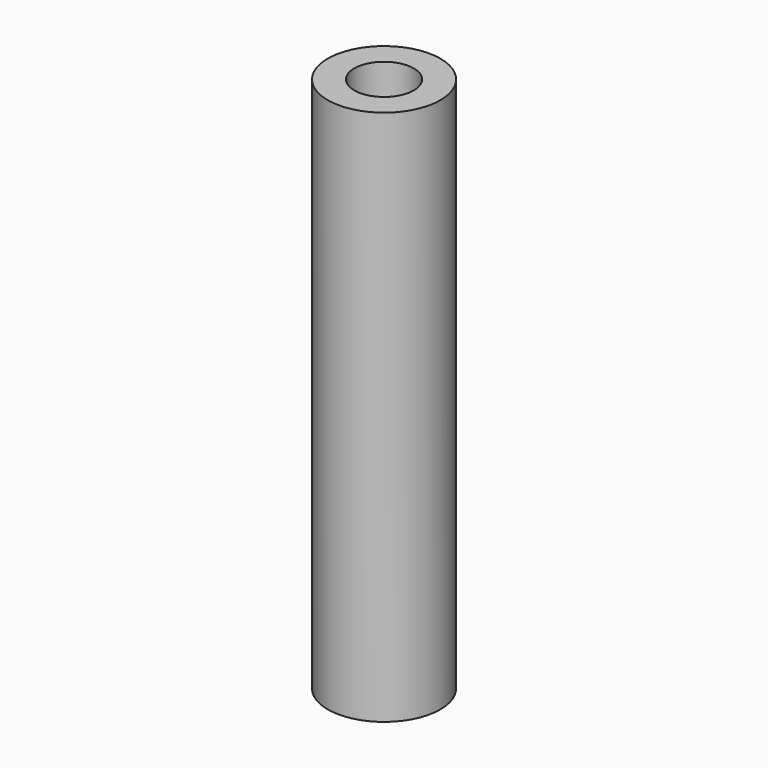
from build123d import *

# Parameters (mm, degrees)
F0_R           = 6
F1_DEPTH       = 57.15
F3_D           = 3.175
F3_DEPTH       = 19.05
F3_CBORE_D     = 6.35
F3_CBORE_DEPTH = 6.35
F3_TIP         = 0.9538662327


with BuildPart() as f1:
    # F0 (on Top) → F1 (new body)
    with BuildSketch(Plane.XY):
        Circle(F0_R)
    extrude(amount=F1_DEPTH)

    # F3
    with Locations(Plane.XY.offset(57.15)):
        with Locations((0, 0)):
            CounterBoreHole(F3_D / 2, F3_CBORE_D / 2, F3_CBORE_DEPTH, depth=F3_DEPTH)
            with Locations((0, 0, -(F3_DEPTH + F3_TIP / 2))):  # 118° drill point
                Cone(0, F3_D / 2, F3_TIP, mode=Mode.SUBTRACT)


solid = f1.part
